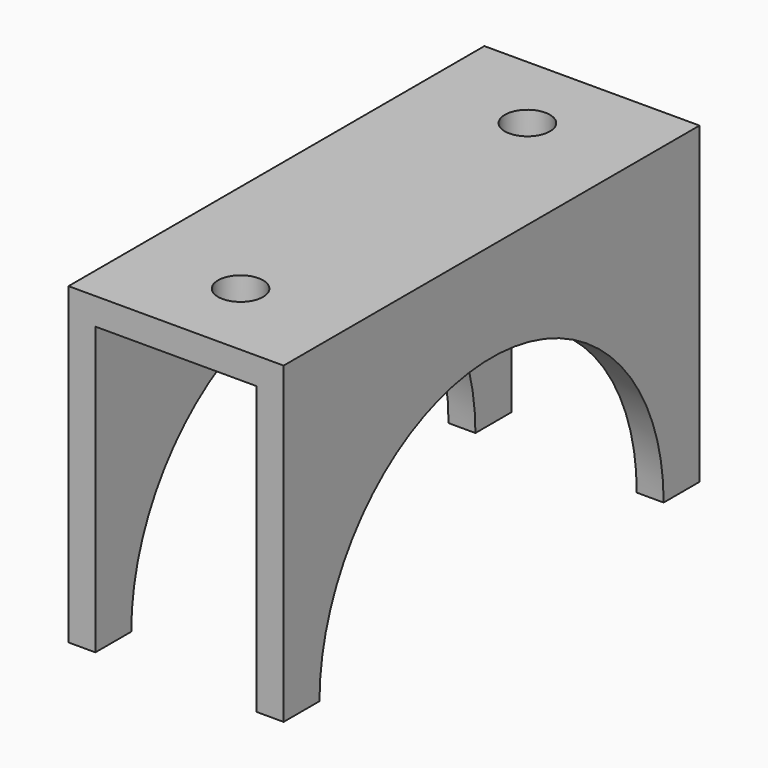
from build123d import *

# Parameters (mm, degrees)
F0_W     = 38.1
F0_H     = 92.075
F1_DEPTH = 4.7625
F3_DEPTH = 4.7625
F5_DEPTH = 4.7625
F6_R     = 3.98907
F7_DEPTH = 55.5635


with BuildPart() as f1:
    # F0 (on Top) → F1 (new body)
    with BuildSketch(Plane.XY):
        with Locations((0, -46.0375)):
            Rectangle(F0_W, F0_H)
    extrude(amount=-F1_DEPTH)

    # F2 (on face) → F3 (join)
    with BuildSketch(Plane(origin=(-19.05, 0, 0), x_dir=(0, -1, 0), z_dir=(-1, 0, 0))):
        with BuildLine():
            Line((92.075, 0), (0, 0))
            Line((0, 0), (0, -55.5625))
            Line((0, -55.5625), (7.9375, -55.5625))
            ThreePointArc((7.9375, -55.5625), (46.0375, -17.4625), (84.1375, -55.5625))
            Line((84.1375, -55.5625), (92.075, -55.5625))
            Line((92.075, -55.5625), (92.075, 0))
        make_face()
    extrude(amount=-F3_DEPTH)

    # F4 (on face) → F5 (join)
    with BuildSketch(Plane.YZ.offset(19.05)):
        with BuildLine():
            Line((0, 0), (-92.075, 0))
            Line((-92.075, 0), (-92.075, -55.5625))
            Line((-92.075, -55.5625), (-84.1375, -55.5625))
            ThreePointArc((-84.1375, -55.5625), (-46.0375, -17.4625), (-7.9375, -55.5625))
            Line((-7.9375, -55.5625), (0, -55.5625))
            Line((0, -55.5625), (0, 0))
        make_face()
    extrude(amount=-F5_DEPTH)

    # F6 (on Top) → F7 (cut, through all)
    with BuildSketch(Plane.XY):
        with Locations((0, -14.2875)):
            Circle(F6_R)
        with Locations((0, -77.7875)):
            Circle(F6_R)
    extrude(amount=-F7_DEPTH, mode=Mode.SUBTRACT)


solid = f1.part
